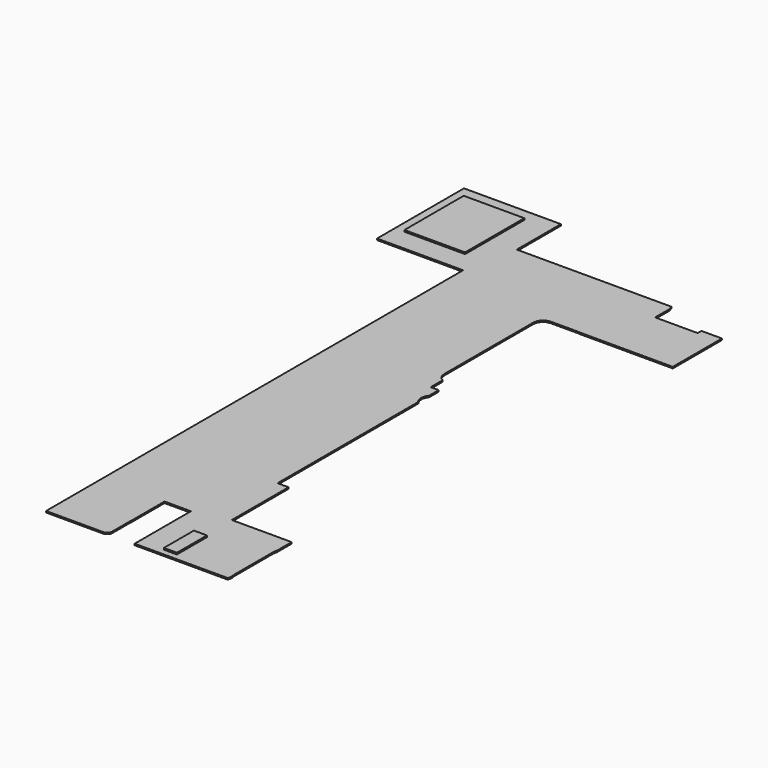
from build123d import *

# Parameters (mm, degrees)
PAD_DEPTH    = 0.046
SKETCH002_W  = 1.924742
SKETCH002_H  = 2.351108
PAD001_DEPTH = 0.05
SKETCH003_W  = 0.414509
SKETCH003_H  = 1.190033
PAD002_DEPTH = 0.05


with BuildPart() as part:
    # Sketch → Pad (new body)
    with BuildSketch(Plane.XY):
        Polygon((36.346094, 51.80915), (36.392998, 51.701576), (36.392998, 51.109999), (37.742998, 51.109999), (37.742998, 51.259997), (38.392999, 51.259997), (38.392999, 49.31), (35.458194, 49.31), (35.4573, 49.310176), (35.427625, 49.310087), (35.398525, 49.315875), (34.512999, 49.315875), (34.395946, 49.292591), (34.296711, 49.226287), (34.230407, 49.127052), (34.207122, 49.009999), (34.207122, 45.461999), (34.230407, 45.344946), (34.296711, 45.245711), (34.386002, 45.186051), (34.386002, 44.708), (34.642999, 44.708), (34.642999, 44.322444), (34.615783, 44.295228), (34.565999, 44.175042), (34.565999, 44.044954), (34.615783, 43.924769), (34.642999, 43.897553), (34.642999, 38.31), (34.992186, 38.31), (34.992186, 36.056903), (36.893, 36.056903), (36.893, 35.478903), (36.871742, 35.372032), (36.871742, 33.780103), (36.890262, 33.687001), (36.860833, 33.559999), (33.906066, 33.559999), (33.906066, 35.790099), (33.069934, 35.790099), (33.069934, 34.437018), (33.064958, 34.412001), (33.064958, 33.673212), (32.951745, 33.559999), (31.092999, 33.559999), (31.092999, 50.109999), (28.362245, 50.109999), (28.362245, 53.56), (31.439899, 53.56), (31.439899, 51.809147), align=None)
    extrude(amount=PAD_DEPTH)

    # Sketch002 (on Face52 of Pad) → Pad001 (join)
    with BuildSketch(Plane.XY.offset(0.046)):
        with Locations((29.62901, 51.992506)):
            Rectangle(SKETCH002_W, SKETCH002_H)
    extrude(amount=PAD001_DEPTH)

    # Sketch003 (on Face5 of Pad001) → Pad002 (join)
    with BuildSketch(Plane.XY.offset(0.046)):
        with Locations((34.881022, 34.35564)):
            Rectangle(SKETCH003_W, SKETCH003_H)
    extrude(amount=PAD002_DEPTH)


solid = part.part
